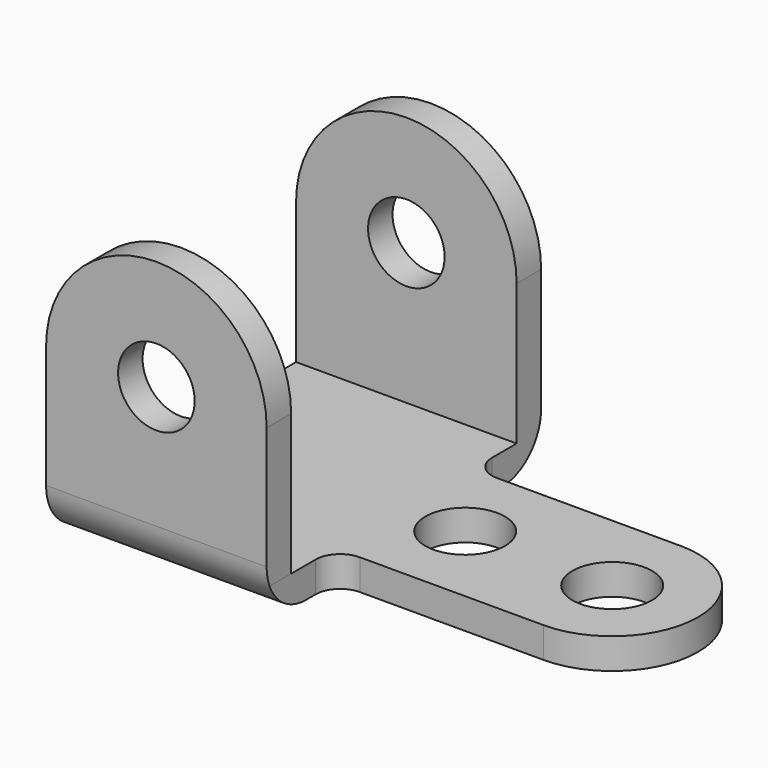
from build123d import *

# Parameters (mm, degrees)
F0_R     = 10.3251
F1_DEPTH = 7.9375
F2_R     = 9.92251
F3_DEPTH = 44.45
F4_W     = 73.025
F4_H     = 78.11679
F5_DEPTH = 133.351001
F6_R     = 12.7


with BuildPart() as f1:
    # F0 (on Top) → F1 (new body)
    with BuildSketch(Plane.XY):
        with BuildLine():
            Line((57.15, 44.45), (0, 44.45))
            Line((0, 44.45), (0, -44.45))
            Line((0, -44.45), (57.150001, -44.45))
            Line((57.150001, -44.45), (57.150001, -28.575))
            ThreePointArc((57.150001, -28.575), (59.009873, -24.084872), (63.5, -22.225))
            Line((63.5, -22.225), (111.125001, -22.225))
            ThreePointArc((111.125001, -22.225), (133.350001, 0), (111.125001, 22.225))
            Line((111.125001, 22.225), (63.5, 22.225))
            ThreePointArc((63.5, 22.225), (59.009872, 24.084872), (57.15, 28.575))
            Line((57.15, 28.575), (57.15, 44.45))
        make_face()
        with Locations((73.025001, 0)):
            Circle(F0_R, mode=Mode.SUBTRACT)
        with Locations((111.125001, 0)):
            Circle(F0_R, mode=Mode.SUBTRACT)
    extrude(amount=F1_DEPTH)

    # F2 (on Front) → F3 (join, symmetric)
    with BuildSketch(Plane.XZ):
        with BuildLine():
            Line((0, 44.45), (0, 7.9375))
            Line((0, 7.9375), (57.15, 7.9375))
            Line((57.15, 7.9375), (57.15, 44.45))
            ThreePointArc((57.15, 44.45), (28.575, 73.025), (0, 44.45))
        make_face()
        with Locations((28.575, 44.45)):
            Circle(F2_R, mode=Mode.SUBTRACT)
    extrude(amount=F3_DEPTH, both=True)

    # F4 (on face) → F5 (cut, through all)
    with BuildSketch(Plane(origin=(0, 0, 0), x_dir=(0, -1, 0), z_dir=(-1, 0, 0))):
        with Locations((0, 46.995895)):
            Rectangle(F4_W, F4_H)
    extrude(amount=-F5_DEPTH, mode=Mode.SUBTRACT)

    # F6
    f6_edges = [f1.edges().sort_by_distance(p)[0] for p in [
        (28.575001, -44.45, 0),
        (28.575, 44.45, 0),
    ]]
    fillet(f6_edges, radius=F6_R)


solid = f1.part
